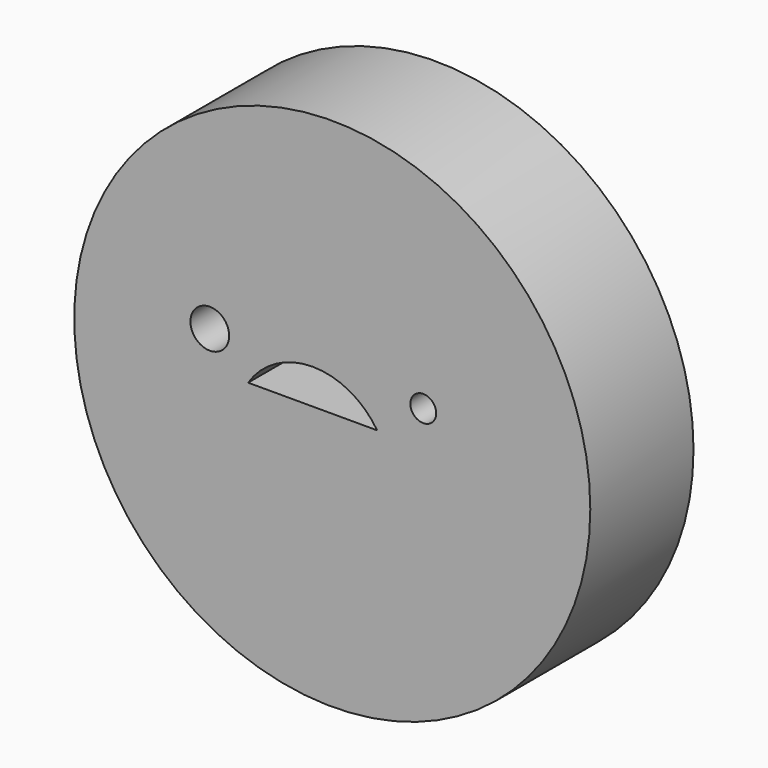
from build123d import *

# Parameters (mm, degrees)
F0_R     = 50.8
F0_R_2   = 3.81
F0_R_3   = 2.54
F1_DEPTH = 25.4


with BuildPart() as f1:
    # F0 (on Front) → F1 (new body)
    with BuildSketch(Plane.XZ):
        Circle(F0_R)
        with Locations((-24.110759, 6.902)):
            Circle(F0_R_2, mode=Mode.SUBTRACT)
        with BuildLine():
            Line((8.832272, 0), (-16.567728, 0))
            ThreePointArc((-16.567728, 0), (-3.867728, 6.902), (8.832272, 0))
        make_face(mode=Mode.SUBTRACT)
        with Locations((17.914698, 6.733317)):
            Circle(F0_R_3, mode=Mode.SUBTRACT)
    extrude(amount=F1_DEPTH)


solid = f1.part
